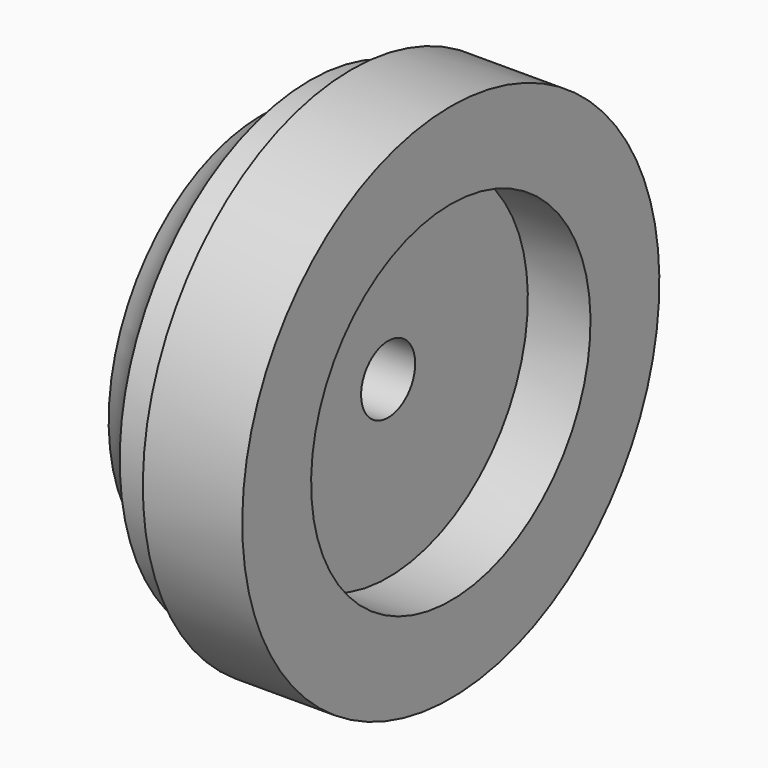
from build123d import *


with BuildPart() as f1:
    # F0 (on Front) → F1 (revolve)
    with BuildSketch(Plane.XZ):
        with BuildLine():
            Line((6.181453, 20.90635), (-2.241833, 20.90635))
            ThreePointArc((-2.241833, 20.90635), (-6.446384, 15.527655), (-11.9819, 11.531822))
            Line((-11.9819, 11.531822), (-11.9819, -5.58871))
            Line((-11.9819, -5.58871), (-23.116937, -5.58871))
            Line((-23.116937, -5.58871), (-23.116937, -27.26613))
            Line((-23.116937, -27.26613), (-4.657258, -27.26613))
            Line((-4.657258, -27.26613), (-4.657258, -20.410547))
            Line((-4.657258, -20.410547), (13.634575, -20.410547))
            Line((13.634575, -20.410547), (13.634575, 8.129032))
            Line((13.634575, 8.129032), (26.334679, 8.129032))
            Line((26.334679, 8.129032), (26.334679, 25.572581))
            Line((26.334679, 25.572581), (6.181453, 25.572581))
            Line((6.181453, 25.572581), (6.181453, 20.90635))
        make_face()
    revolve(axis=Axis((-13.887098, 0, -27.26613), (-1, 0, 0)))


solid = f1.part
